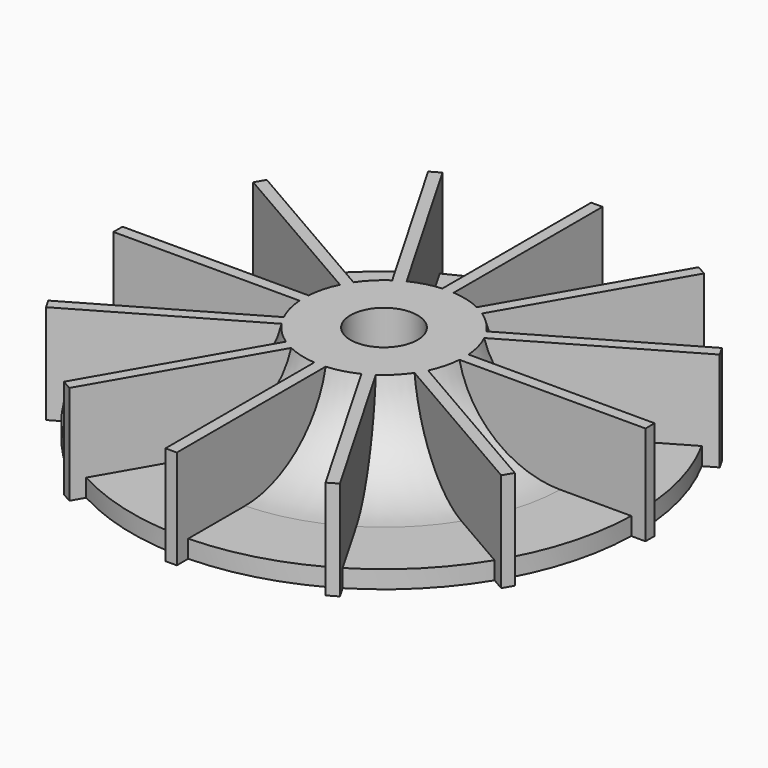
from build123d import *

# Parameters (mm, degrees)
F2_R          = 6
F3_DEPTH      = 25.4
F4_W          = 38.1
F4_H          = 2.032
F4_W_2        = 2.032
F4_H_2        = 38.1
F5_DEPTH      = 14.605
F5_DEPTH_BACK = 3.175


with BuildPart() as f1:
    # F0 (on Front) → F1 (revolve)
    with BuildSketch(Plane.XZ):
        with BuildLine():
            Line((-45.085, 3.175), (-45.085, 0))
            Line((-45.085, 0), (-32.385, 0))
            ThreePointArc((-32.385, 0), (-22.038981, 2.638173), (-14.219551, 9.908427))
            ThreePointArc((-14.219551, 9.908427), (-13.292572, 10.253456), (-12.7, 9.4615))
            Line((-12.7, 9.4615), (-12.7, 0))
            Line((-12.7, 0), (0, 0))
            Line((0, 0), (0, 17.78))
            Line((0, 17.78), (-14.355584, 17.78))
            ThreePointArc((-14.355584, 17.78), (-20.783644, 7.284364), (-32.385, 3.175))
            Line((-32.385, 3.175), (-45.085, 3.175))
        make_face()
    revolve(axis=Axis((0, 0, 8.89), (0, 0, 1)))

    # F2 (on face) → F3 (cut)
    with BuildSketch(Plane(origin=(0, 0, 0), x_dir=(1, 0, 0), z_dir=(0, 0, -1))):
        Circle(F2_R)
    extrude(amount=-F3_DEPTH, mode=Mode.SUBTRACT)

    # F4 (on face) → F5 (join, two sides)
    with BuildSketch(Plane.XY.offset(3.175)) as f5_sk:
        with Locations((-28.564161, 0)):
            Rectangle(F4_W, F4_H)
        Polygon((-40.727073, -24.686963), (-7.731505, -5.636963), (-8.747505, -3.877199), (-41.743073, -22.927199), align=None)
        Polygon((-22.927199, -41.743073), (-3.877199, -8.747505), (-5.636963, -7.731505), (-24.686963, -40.727073), align=None)
        with Locations((0, -28.564161)):
            Rectangle(F4_W_2, F4_H_2)
        Polygon((24.686963, -40.727073), (5.636963, -7.731505), (3.877199, -8.747505), (22.927199, -41.743073), align=None)
        Polygon((41.743073, -22.927199), (8.747505, -3.877199), (7.731505, -5.636963), (40.727073, -24.686963), align=None)
        with Locations((28.564161, 0)):
            Rectangle(F4_W, F4_H)
        Polygon((40.727073, 24.686963), (7.731505, 5.636963), (8.747505, 3.877199), (41.743073, 22.927199), align=None)
        Polygon((22.927199, 41.743073), (3.877199, 8.747505), (5.636963, 7.731505), (24.686963, 40.727073), align=None)
        with Locations((0, 28.564161)):
            Rectangle(F4_W_2, F4_H_2)
        Polygon((-24.686963, 40.727073), (-5.636963, 7.731505), (-3.877199, 8.747505), (-22.927199, 41.743073), align=None)
        Polygon((-41.743073, 22.927199), (-8.747505, 3.877199), (-7.731505, 5.636963), (-40.727073, 24.686963), align=None)
    extrude(amount=F5_DEPTH)
    extrude(f5_sk.sketch, amount=-F5_DEPTH_BACK)


solid = f1.part
